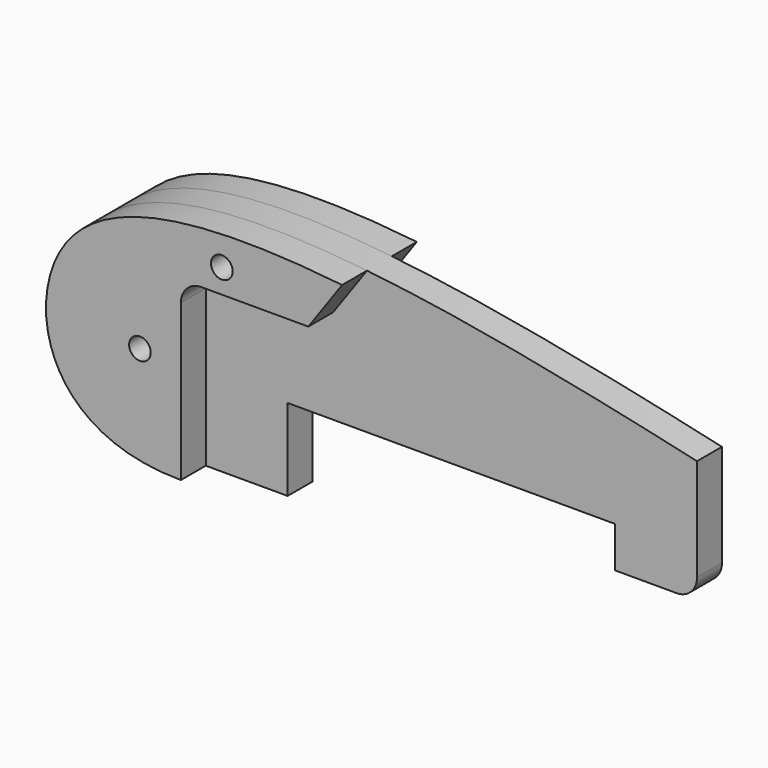
from build123d import *

# Parameters (mm, degrees)
F0_R          = 1.6764
F1_DEPTH      = 4.826
F2_R          = 1.6764
F3_DEPTH      = 4.826
F3_DEPTH_BACK = 9.652


with BuildPart() as f1:
    # F0 (on Front) → F1 (new body)
    with BuildSketch(Plane.XZ):
        with BuildLine():
            Line((0, 25.4), (0, 0))
            Line((0, 0), (12.7, 0))
            Line((12.7, 0), (12.7, 12.7))
            Line((12.7, 12.7), (63.5, 12.7))
            Line((63.5, 12.7), (63.5, 6.35))
            Line((63.5, 6.35), (73.025, 6.35))
            ThreePointArc((73.025, 6.35), (75.2700640303, 7.2799359697), (76.2, 9.525))
            Line((76.2, 9.525), (76.2, 25.4))
            Line((76.2, 25.4), (0, 25.4))
        make_face()
        with BuildLine():
            add(Edge.make_bspline(
                [(76.2, 25.4), (26.6581273418, 36.622909108), (-29.7852053598, 44.2043974935), (-20.7405121115, 0), (0, 0)],
                knots=[0, 0, 0, 0, 0.6344075171, 1, 1, 1, 1], degree=3))
            Line((0, 0), (0, 25.4))
            Line((0, 25.4), (76.2, 25.4))
        make_face()
        with Locations((-6.35, 15.875)):
            Circle(F0_R, mode=Mode.SUBTRACT)
        with Locations((6.35, 31.115)):
            Circle(F0_R, mode=Mode.SUBTRACT)
    extrude(amount=F1_DEPTH)

    # F2 (on face) → F3 (join, two sides)
    with BuildSketch(Plane.XZ.offset(4.826)) as f3_sk:
        with BuildLine():
            Line((3.175, 27.3878005167), (19.7676480954, 27.3878005167))
            Line((19.7676480954, 27.3878005167), (25.0090726158, 34.7748551155))
            add(Edge.make_bspline(
                [(25.0090726158, 34.7748551155), (2.6249492009, 37.1897339417), (-27.5347979466, 33.2059146169), (-20.7405121115, 0), (0, 0)],
                knots=[0.2488096999, 0.2488096999, 0.2488096999, 0.2488096999, 0.6344075171, 1, 1, 1, 1], degree=3))
            Line((0, 0), (0, 24.2128005167))
            ThreePointArc((0, 24.2128005167), (0.9299359697, 26.457864547), (3.175, 27.3878005167))
        make_face()
        with Locations((-6.35, 15.875)):
            Circle(F2_R, mode=Mode.SUBTRACT)
        with Locations((6.35, 31.115)):
            Circle(F2_R, mode=Mode.SUBTRACT)
    extrude(amount=F3_DEPTH)
    extrude(f3_sk.sketch, amount=-F3_DEPTH_BACK)


solid = f1.part
